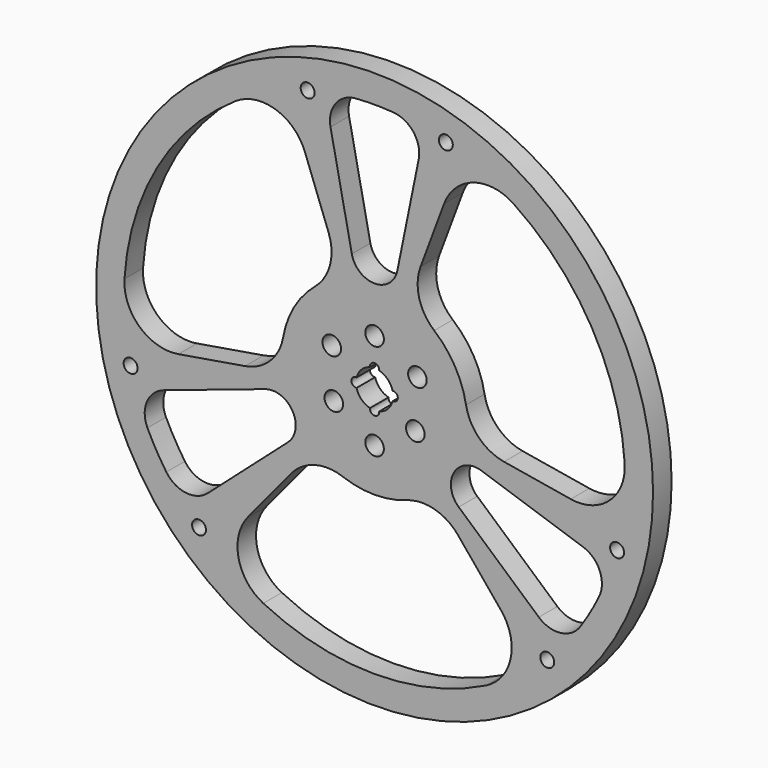
from build123d import *

# Parameters (mm, degrees)
F0_R     = 1524
F0_R_2   = 38.1
F0_R_3   = 381
F0_R_4   = 50.8
F1_DEPTH = 127


with BuildPart() as f1:
    # F0 (on Front) → F1 (new body)
    with BuildSketch(Plane.XZ):
        Circle(F0_R)
        with Locations((-960.781548, -977.737222)):
            Circle(F0_R_2, mode=Mode.SUBTRACT)
        with BuildLine():
            ThreePointArc((-912.836991, -797.270509), (-1032.631754, -834.364206), (-1139.688814, -769.053308))
            ThreePointArc((-1139.688814, -769.053308), (-1194.71251, -681.540451), (-1242.989019, -590.132104))
            ThreePointArc((-1242.989019, -590.132104), (-1246.021386, -464.762522), (-1153.999921, -379.564062))
            Line((-1153.999921, -379.564062), (-598.839345, -193.809932))
            ThreePointArc((-598.839345, -193.809932), (-448.556428, -250.747036), (-474.388908, -409.364413))
            Line((-474.388908, -409.364413), (-912.836991, -797.270509))
        make_face(mode=Mode.SUBTRACT)
        with Locations((-1334.994033, -320.531734)):
            Circle(F0_R_2, mode=Mode.SUBTRACT)
        with BuildLine():
            Line((-692.27808, -839.800465), (-456.971626, -554.350911))
            ThreePointArc((-456.971626, -554.350911), (-327.727364, -470.842027), (-173.985988, -477.276519))
            ThreePointArc((-173.985988, -477.276519), (0, -508), (173.985988, -477.276519))
            ThreePointArc((173.985988, -477.276519), (327.727364, -470.842027), (456.971626, -554.350911))
            Line((456.971626, -554.350911), (692.27808, -839.800465))
            ThreePointArc((692.27808, -839.800465), (744.671817, -1054.469942), (609.07758, -1228.947135))
            ThreePointArc((609.07758, -1228.947135), (0, -1371.6), (-609.07758, -1228.947135))
            ThreePointArc((-609.07758, -1228.947135), (-744.671817, -1054.469942), (-692.27808, -839.800465))
        make_face(mode=Mode.SUBTRACT)
        with Locations((945.085641, -995.87288)):
            Circle(F0_R_2, mode=Mode.SUBTRACT)
        with BuildLine():
            ThreePointArc((1140.002944, -387.64522), (1232.02441, -472.84368), (1228.992043, -598.213262))
            ThreePointArc((1228.992043, -598.213262), (1180.715533, -689.621609), (1125.691838, -777.134466))
            ThreePointArc((1125.691838, -777.134466), (1018.634778, -842.445364), (898.840015, -805.351667))
            Line((898.840015, -805.351667), (460.391932, -417.445571))
            ThreePointArc((460.391932, -417.445571), (434.559451, -258.828194), (584.842369, -201.89109))
            Line((584.842369, -201.89109), (1140.002944, -387.64522))
        make_face(mode=Mode.SUBTRACT)
        with Locations((1327.136046, -343.192617)):
            Circle(F0_R_2, mode=Mode.SUBTRACT)
        with BuildLine():
            ThreePointArc((-1368.838229, 86.99691), (-1187.840444, 685.8), (-759.760649, 1141.950225))
            ThreePointArc((-759.760649, 1141.950225), (-540.861849, 1172.139682), (-381.149497, 1019.430636))
            Line((-381.149497, 1019.430636), (-251.596158, 672.924493))
            ThreePointArc((-251.596158, 672.924493), (-243.373351, 521.263687), (-323.160527, 392.025067))
            ThreePointArc((-323.160527, 392.025067), (-324.744988, 390.663267), (-326.340596, 389.314545))
            ThreePointArc((-326.340596, 389.314545), (-439.940905, 254), (-500.326584, 87.961974))
            ThreePointArc((-500.326584, 87.961974), (-571.624839, -48.399209), (-708.567785, -118.573582))
            Line((-708.567785, -118.573582), (-1073.427576, -179.630171))
            ThreePointArc((-1073.427576, -179.630171), (-1285.533665, -117.66974), (-1368.838229, 86.99691))
        make_face(mode=Mode.SUBTRACT)
        with BuildLine():
            ThreePointArc((124.450437, 611.693443), (0, 510.013171), (-124.450437, 611.693443))
            Line((-124.450437, 611.693443), (-241.16293, 1185.353669))
            ThreePointArc((-241.16293, 1185.353669), (-213.389632, 1307.645825), (-103.300205, 1367.70451))
            ThreePointArc((-103.300205, 1367.70451), (0, 1371.6), (103.300205, 1367.70451))
            ThreePointArc((103.300205, 1367.70451), (213.389632, 1307.645825), (241.16293, 1185.353669))
            Line((241.16293, 1185.353669), (124.450437, 611.693443))
        make_face(mode=Mode.SUBTRACT)
        with Locations((-366.354499, 1320.929839)):
            Circle(F0_R_2, mode=Mode.SUBTRACT)
        Circle(F0_R_3, mode=Mode.SUBTRACT)
        with BuildLine():
            ThreePointArc((708.567785, -118.573582), (571.624839, -48.399209), (500.326584, 87.961974))
            ThreePointArc((500.326584, 87.961974), (439.940905, 254), (326.340596, 389.314545))
            ThreePointArc((326.340596, 389.314545), (243.897475, 519.241236), (251.596158, 672.924493))
            Line((251.596158, 672.924493), (381.149497, 1019.430636))
            ThreePointArc((381.149497, 1019.430636), (540.861849, 1172.139682), (759.760649, 1141.950225))
            ThreePointArc((759.760649, 1141.950225), (1187.840444, 685.8), (1368.838229, 86.99691))
            ThreePointArc((1368.838229, 86.99691), (1285.533665, -117.66974), (1073.427576, -179.630171))
            Line((1073.427576, -179.630171), (708.567785, -118.573582))
        make_face(mode=Mode.SUBTRACT)
        with Locations((389.908392, 1316.404614)):
            Circle(F0_R_2, mode=Mode.SUBTRACT)
        Circle(F0_R_3)
        with Locations((-223.02177, -128.761679)):
            Circle(F0_R_4, mode=Mode.SUBTRACT)
        with Locations((0, -270.565897)):
            Circle(F0_R_4, mode=Mode.SUBTRACT)
        with Locations((223.02177, -128.761679)):
            Circle(F0_R_4, mode=Mode.SUBTRACT)
        with Locations((-234.31694, 135.282949)):
            Circle(F0_R_4, mode=Mode.SUBTRACT)
        with BuildLine():
            ThreePointArc((-25.200781, -98.425), (-71.842049, -71.842049), (-98.425, -25.200781))
            ThreePointArc((-98.425, -25.200781), (-127, 0), (-98.425, 25.200781))
            ThreePointArc((-98.425, 25.200781), (-71.842049, 71.842049), (-25.200781, 98.425))
            ThreePointArc((-25.200781, 98.425), (0, 127), (25.200781, 98.425))
            ThreePointArc((25.200781, 98.425), (71.842049, 71.842049), (98.425, 25.200781))
            ThreePointArc((98.425, 25.200781), (127, 0), (98.425, -25.200781))
            ThreePointArc((98.425, -25.200781), (71.842049, -71.842049), (25.200781, -98.425))
            ThreePointArc((25.200781, -98.425), (0, -127), (-25.200781, -98.425))
        make_face(mode=Mode.SUBTRACT)
        with Locations((234.31694, 135.282949)):
            Circle(F0_R_4, mode=Mode.SUBTRACT)
        with Locations((0, 257.523358)):
            Circle(F0_R_4, mode=Mode.SUBTRACT)
    extrude(amount=F1_DEPTH)


solid = f1.part
